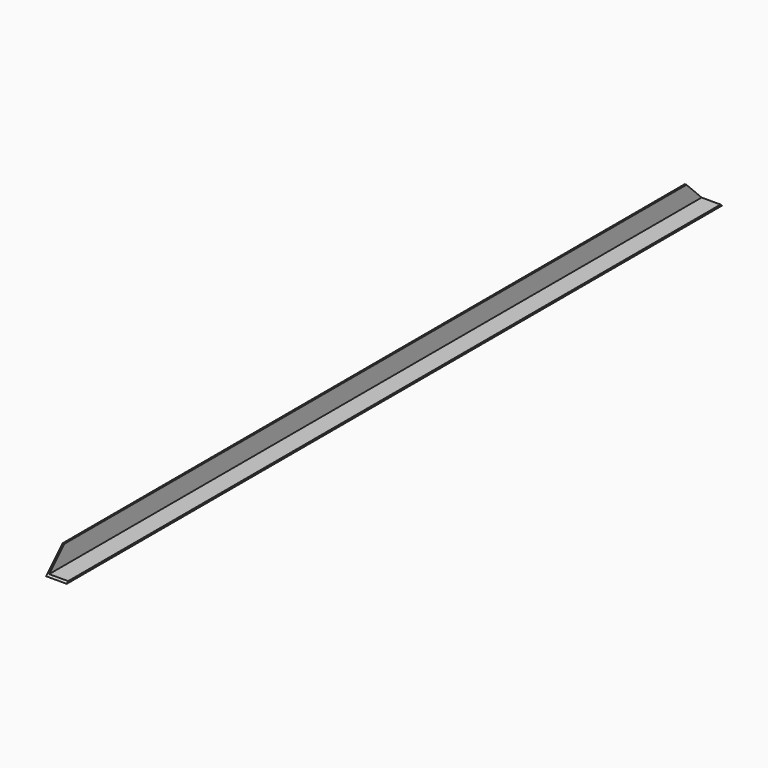
from build123d import *

# Parameters (mm, degrees)
F1_DEPTH = 1511.3
F3_DEPTH = 38.1


with BuildPart() as f1:
    # F0 (on Front) → F1 (new body)
    with BuildSketch(Plane.XZ):
        Polygon((-18.553972, 20.450408), (-21.728972, 20.450408), (-21.728972, -17.649592), (16.371028, -17.649592), (16.371028, -14.474592), (-18.553972, -14.474592), align=None)
    extrude(amount=F1_DEPTH)

    # F2 (on face) → F3 (cut)
    with BuildSketch(Plane(origin=(-21.728972, 0, 0), x_dir=(0, -1, 0), z_dir=(-1, 0, 0))):
        Polygon((1473.2, 20.450408), (1511.3, -17.649592), (1511.3, 20.450408), align=None)
        Polygon((0, 20.450408), (0, -17.649592), (38.1, 20.450408), align=None)
    extrude(amount=-F3_DEPTH, mode=Mode.SUBTRACT)


solid = f1.part
